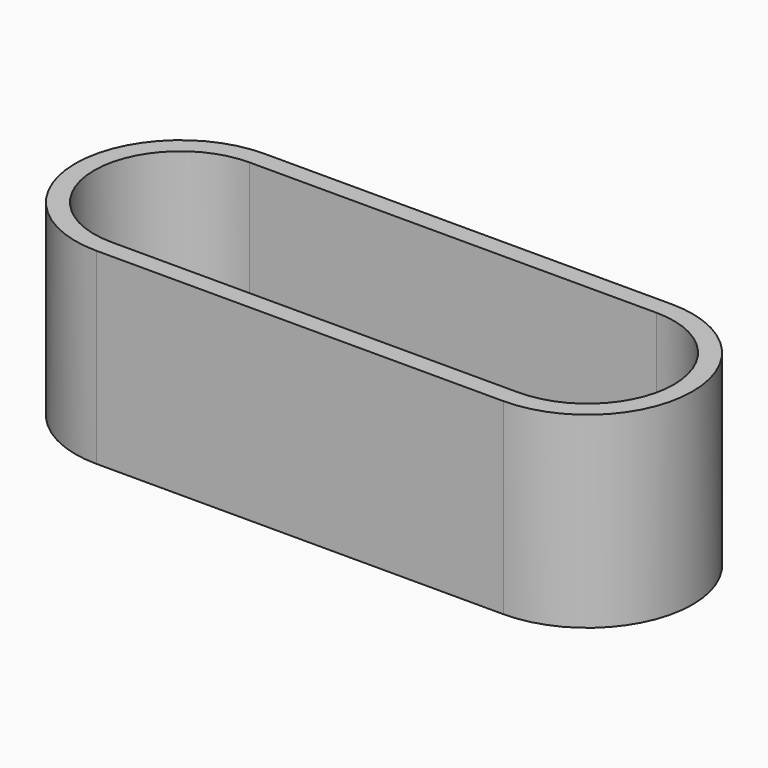
from build123d import *

# Parameters (mm, degrees)
F1_DEPTH = 2
F3_DEPTH = 8


with BuildPart() as f1:
    # F0 (on Top) → F1 (new body)
    with BuildSketch(Plane.XY):
        with BuildLine():
            Line((10.85, 5.6), (-10.85, 5.6))
            ThreePointArc((-10.85, 5.6), (-16.45, 0), (-10.85, -5.6))
            Line((-10.85, -5.6), (10.85, -5.6))
            ThreePointArc((10.85, -5.6), (16.45, 0), (10.85, 5.6))
        make_face()
    extrude(amount=F1_DEPTH)

    # F2 (on face) → F3 (join)
    with BuildSketch(Plane.XY.offset(2)):
        with BuildLine():
            ThreePointArc((10.85, -5.6), (16.45, 0), (10.85, 5.6))
            Line((10.85, 5.6), (-10.85, 5.6))
            ThreePointArc((-10.85, 5.6), (-16.45, 0), (-10.85, -5.6))
            Line((-10.85, -5.6), (10.85, -5.6))
        make_face()
        with BuildLine():
            ThreePointArc((-10.85, -4.6), (-15.45, 0), (-10.85, 4.6))
            Line((-10.85, 4.6), (10.85, 4.6))
            ThreePointArc((10.85, 4.6), (15.45, 0), (10.85, -4.6))
            Line((10.85, -4.6), (-10.85, -4.6))
        make_face(mode=Mode.SUBTRACT)
    extrude(amount=F3_DEPTH)


solid = f1.part
